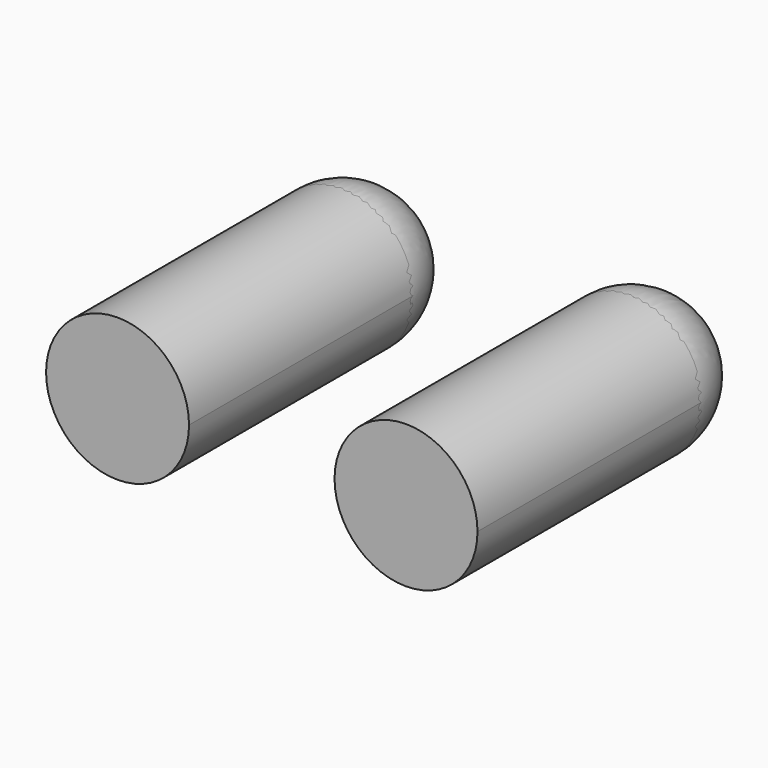
from build123d import *

# Parameters (mm, degrees)
F1_DEPTH = 50


with BuildPart() as f1:
    # F0 (on Front) → F1 (new body)
    with BuildSketch(Plane.XZ):
        with BuildLine():
            ThreePointArc((38.43375, 0), (25.699575, 12.734176), (12.965399, 0))
            Line((12.965399, 0), (25.699575, 0))
            Line((25.699575, 0), (38.43375, 0))
        make_face()
        with BuildLine():
            Line((25.699575, 0), (12.965399, 0))
            ThreePointArc((12.965399, 0), (25.699575, -12.734176), (38.43375, 0))
            Line((38.43375, 0), (25.699575, 0))
        make_face()
        with BuildLine():
            ThreePointArc((-38.43375, 0), (-25.699575, -12.734176), (-12.965399, 0))
            Line((-12.965399, 0), (-25.699575, 0))
            Line((-25.699575, 0), (-38.43375, 0))
        make_face()
        with BuildLine():
            Line((-25.699575, 0), (-12.965399, 0))
            ThreePointArc((-12.965399, 0), (-25.699575, 12.734176), (-38.43375, 0))
            Line((-38.43375, 0), (-25.699575, 0))
        make_face()
    extrude(amount=F1_DEPTH)


with BuildPart() as f2:
    # F0 (on Front) → F2 (revolve)
    with BuildSketch(Plane.XZ):
        with BuildLine():
            Line((25.699575, 0), (12.965399, 0))
            ThreePointArc((12.965399, 0), (25.699575, -12.734176), (38.43375, 0))
            Line((38.43375, 0), (25.699575, 0))
        make_face()
        with BuildLine():
            ThreePointArc((-38.43375, 0), (-25.699575, -12.734176), (-12.965399, 0))
            Line((-12.965399, 0), (-25.699575, 0))
            Line((-25.699575, 0), (-38.43375, 0))
        make_face()
    revolve(axis=Axis((-12.849787, 0, 0), (-1, 0, 0)))


solid = Compound([f1.part, f2.part])
